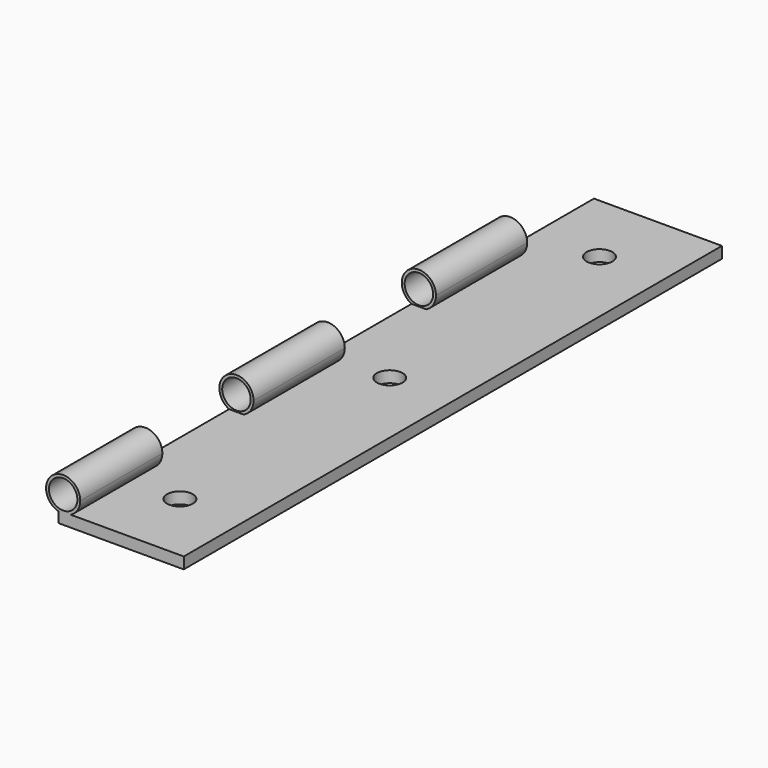
from build123d import *

# Parameters (mm, degrees)
F0_R     = 1.25
F1_DEPTH = 59
F2_W     = 10
F2_H     = 7.0094654113
F2_H_2   = 7.1141358241
F3_DEPTH = 12.0799340399
F5_D     = 2.2606


with BuildPart() as f1:
    # F0 (on Front) → F1 (new body)
    with BuildSketch(Plane.XZ):
        with BuildLine():
            Line((0, 0.9144042292), (0, 0))
            Line((0, 0), (11, 0))
            Line((11, 0), (11, 1))
            Line((11, 1), (1.0663817193, 1))
            ThreePointArc((1.0663817193, 1), (0.5410811762, 0.8589018219), (0, 0.9144042292))
        make_face()
        with BuildLine():
            Line((0, 1), (0, 0.9144042292))
            ThreePointArc((0, 0.9144042292), (0.5410811762, 0.8589018219), (1.0663817193, 1))
            Line((1.0663817193, 1), (0, 1))
        make_face()
        with BuildLine():
            ThreePointArc((1.9210659601, 2.354092896), (-0.4784897802, 3.5544259623), (0, 0.9144042292))
            Line((0, 0.9144042292), (0, 1))
            Line((0, 1), (1.0663817193, 1))
            ThreePointArc((1.0663817193, 1), (1.6895244022, 1.5534599085), (1.9210659601, 2.354092896))
        make_face()
        with Locations((0.4210659601, 2.354092896)):
            Circle(F0_R, mode=Mode.SUBTRACT)
        with BuildLine():
            ThreePointArc((1.9210659601, 2.354092896), (-0.4784897802, 3.5544259623), (0, 0.9144042292))
            Line((0, 0.9144042292), (0, 1))
            Line((0, 1), (1.0663817193, 1))
            ThreePointArc((1.0663817193, 1), (1.6895244022, 1.5534599085), (1.9210659601, 2.354092896))
        make_face()
        with Locations((0.4210659601, 2.354092896)):
            Circle(F0_R, mode=Mode.SUBTRACT)
    extrude(amount=F1_DEPTH)

    # F2 (on face) → F3 (cut, through all)
    with BuildSketch(Plane.YZ.offset(11)):
        with Locations((-45, 4.5047327057)):
            Rectangle(F2_W, F2_H)
        with Locations((-25, 4.5570679121)):
            Rectangle(F2_W, F2_H_2)
        with Locations((-5, 4.5570679121)):
            Rectangle(F2_W, F2_H_2)
    extrude(amount=-F3_DEPTH, mode=Mode.SUBTRACT)

    # F5 (through all)
    with Locations(Plane.XY.offset(1)):
        with Locations((5.463800393, -6.5), (5.463800393, -29.5), (5.463800393, -52.5)):
            Hole(F5_D / 2)


solid = f1.part
